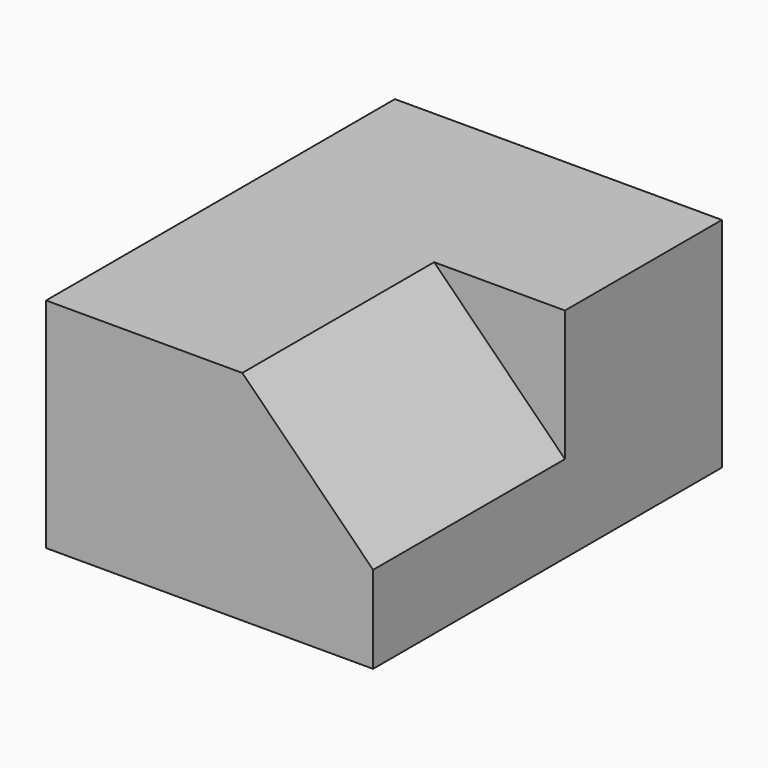
from build123d import *

# Parameters (mm, degrees)
F1_DEPTH  = 40
F1_FACE_W = 30
F1_FACE_H = 20
F3_DEPTH  = 22


with BuildPart() as f1:
    # F0 (on Front) → F1 (new body)
    with BuildSketch(Plane.XZ):
        Polygon((0, 20), (0, 0), (30, 0), (30, 8), (18, 20), align=None)
        Polygon((18, 20), (30, 8), (30, 20), align=None)
    extrude(amount=-F1_DEPTH)

    # F2 (on Front) + F1_face (on face) → F3 (cut)
    with BuildSketch(Plane.XZ):
        Polygon((30, 20), (18, 20), (30, 8), align=None)
    with BuildSketch(Plane(origin=(15, 40, 10), x_dir=(1, 0, 0), z_dir=(0, 1, 0))):
        Rectangle(F1_FACE_W, F1_FACE_H)
    extrude(amount=-F3_DEPTH, dir=(0, -1, 0), mode=Mode.SUBTRACT)


solid = f1.part
